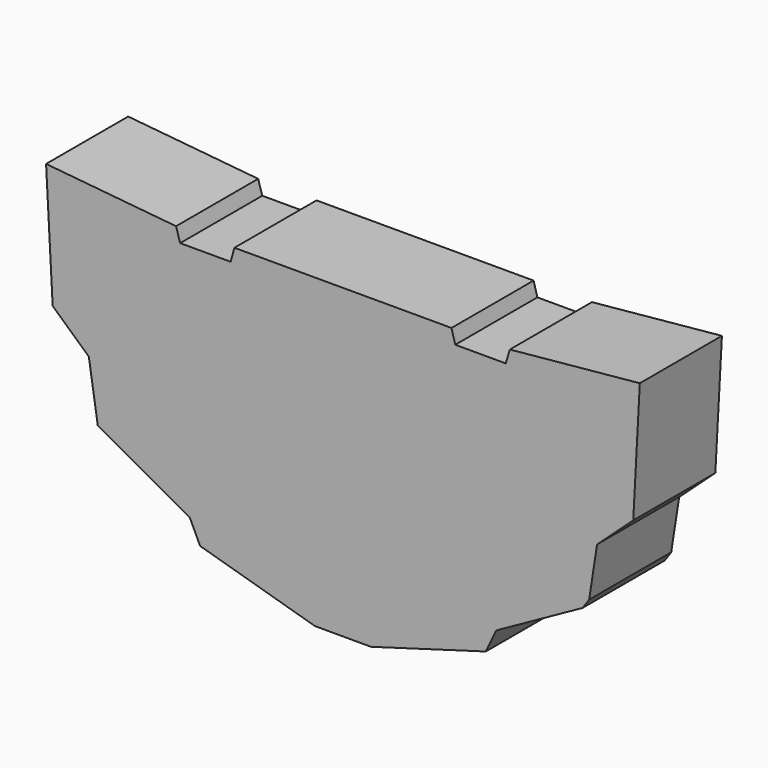
from build123d import *

# Parameters (mm, degrees)
F1_DEPTH = 8
F2_DEPTH = 8
F3_SIZE  = 0.5


with BuildPart() as f1:
    # F0 (on Front) → F1 (new body)
    with BuildSketch(Plane.XZ):
        Polygon((-13.009408, 11.163666), (-23.141133, 12.144796), (-22.627911, 2.564639), (-19.80859, 0), (-19.112445, -4.488478), (-11.951118, -8.457113), (-11.135481, -10.169796), (-2.184, -12.757975), (0, -12.757975), (2.184, -12.757975), (11.135481, -10.169796), (11.951118, -8.457113), (19.112445, -4.488478), (19.80859, 0), (22.627911, 2.564639), (23.141133, 12.144796), (13.009408, 11.163666), (12.689522, 10.10592), (8.754815, 10.10592), (8.461545, 11.163666), (0, 11.163666), (-8.461545, 11.163666), (-8.754815, 10.10592), (-12.689522, 10.10592), align=None)
    extrude(amount=F1_DEPTH)

    # F0 (on Front) → F2 (join)
    with BuildSketch(Plane.XZ):
        Polygon((-13.009408, 11.163666), (-23.141133, 12.144796), (-22.627911, 2.564639), (-19.80859, 0), (-19.112445, -4.488478), (-11.951118, -8.457113), (-11.135481, -10.169796), (-2.184, -12.757975), (0, -12.757975), (2.184, -12.757975), (11.135481, -10.169796), (11.951118, -8.457113), (19.112445, -4.488478), (19.80859, 0), (22.627911, 2.564639), (23.141133, 12.144796), (13.009408, 11.163666), (12.689522, 10.10592), (8.754815, 10.10592), (8.461545, 11.163666), (0, 11.163666), (-8.461545, 11.163666), (-8.754815, 10.10592), (-12.689522, 10.10592), align=None)
    extrude(amount=F2_DEPTH)

    # F3
    f3_edges = [f1.edges().sort_by_distance(p)[0] for p in [
        (19.112445, -4, -4.488478),
    ]]
    chamfer(f3_edges, length=F3_SIZE)


solid = f1.part
